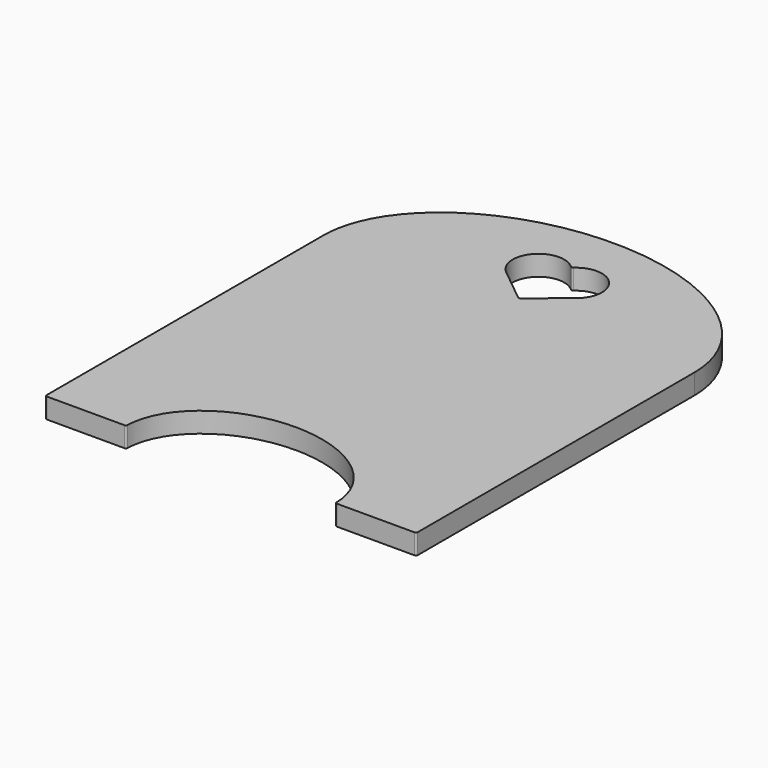
from build123d import *

# Parameters (mm, degrees)
F1_DEPTH = 19.05


with BuildPart() as f1:
    # F0 (on Top) → F1 (new body)
    with BuildSketch(Plane.XY):
        with BuildLine():
            ThreePointArc((0, 1.5875), (0.4649679849, 0.4649679849), (1.5875, 0))
            Line((1.5875, 0), (74.6333020513, 0))
            ThreePointArc((74.6333020513, 0), (75.7410306951, 0.4503573081), (76.2202570521, 1.5459058246))
            add(Edge.make_bspline(
                [(273.0297429479, 1.5459058246), (271.0730551496, 76.2), (174.625, 76.2), (78.1769448504, 76.2), (76.2202570521, 1.5459058246)],
                knots=[3.1618815235, 3.1618815235, 3.1618815235, 4.7123889804, 4.7123889804, 6.2628964372, 6.2628964372, 6.2628964372], degree=2, weights=[1, 0.7142434732, 1, 0.7142434732, 1]))
            ThreePointArc((273.0297429479, 1.5459058246), (273.5089693049, 0.4503573081), (274.6166979487, 0))
            Line((274.6166979487, 0), (347.6625, 0))
            ThreePointArc((347.6625, 0), (348.7850320151, 0.4649679849), (349.25, 1.5875))
            Line((349.25, 1.5875), (349.25, 327.025))
            add(Edge.make_bspline(
                [(349.25, 327.025), (349.25, 450.85), (174.625, 450.85), (0, 450.85), (0, 327.025)],
                knots=[3.1415926536, 3.1415926536, 3.1415926536, 4.7123889804, 4.7123889804, 6.2831853072, 6.2831853072, 6.2831853072], degree=2, weights=[1, 0.7071067812, 1, 0.7071067812, 1]))
            Line((0, 327.025), (0, 1.5875))
        make_face()
        with BuildLine():
            ThreePointArc((175.6255398811, 339.3542789737), (174.625, 338.9992870655), (173.6244601189, 339.3542789737))
            Line((173.6244601189, 339.3542789737), (141.6252161387, 365.331000735))
            ThreePointArc((141.6252161387, 365.331000735), (138.6633069983, 400.1174727261), (173.5357626232, 401.7858186217))
            ThreePointArc((173.5357626232, 401.7858186217), (174.625, 401.3531857946), (175.7142373768, 401.7858186217))
            ThreePointArc((175.7142373767, 401.7858186217), (210.5866930017, 400.1174727261), (207.6247838613, 365.331000735))
            Line((207.6247838613, 365.331000735), (175.6255398811, 339.3542789737))
        make_face(mode=Mode.SUBTRACT)
    extrude(amount=F1_DEPTH)


solid = f1.part
